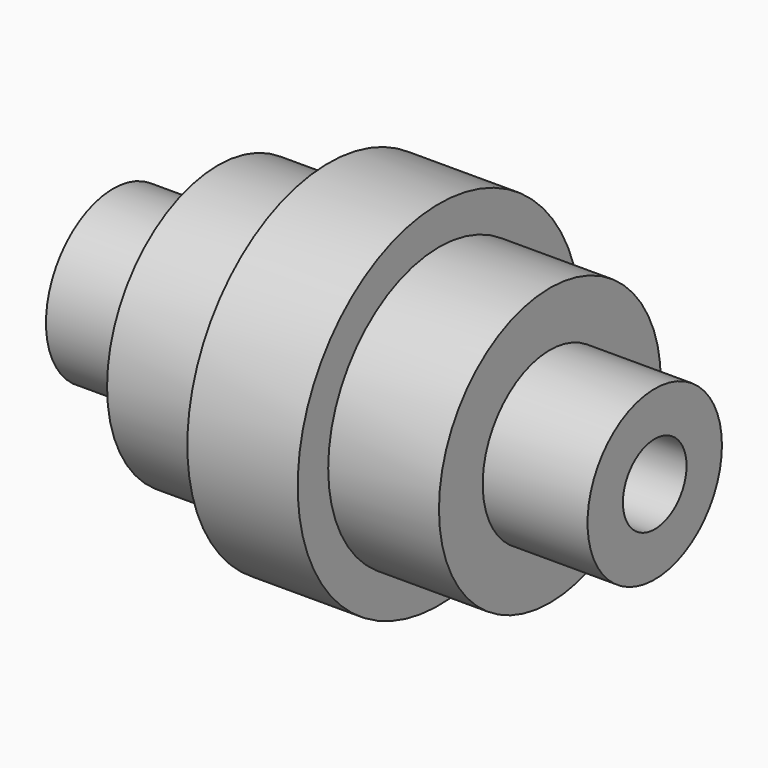
from build123d import *


with BuildPart() as f1:
    # F0 (on Top) → F1 (revolve)
    with BuildSketch(Plane.XY):
        Polygon((74.900694, 23.233382), (45.905843, 23.233382), (45.905843, 38.353771), (15.265487, 38.353771), (15.265487, 48.903458), (0, 48.903458), (0, 38.353771), (0, 11.005023), (45.905843, 11.005023), (74.900694, 11.005023), align=None)
        Polygon((-45.905843, 11.005023), (0, 11.005023), (0, 38.353771), (0, 48.903458), (-15.265487, 48.903458), (-15.265487, 38.353771), (-45.905843, 38.353771), (-45.905843, 23.233382), (-74.900694, 23.233382), (-74.900694, 11.005023), align=None)
    revolve(axis=Axis((-0.145569, 0, 0), (1, 0, 0)))


solid = f1.part
